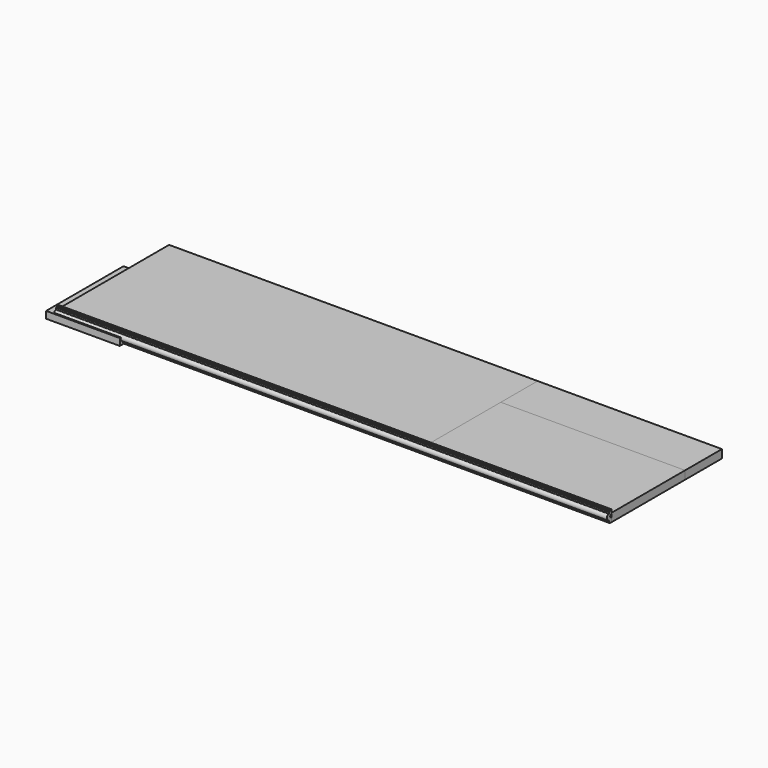
from build123d import *

# Parameters (mm, degrees)
F0_W      = 1200
F0_H      = 300
F1_DEPTH  = 18
F2_W      = 1200
F2_H      = 200
F3_DEPTH  = 18
F5_DEPTH  = 1200
F6_W      = 800
F6_H      = 300
F7_DEPTH  = 18
F8_W      = 160
F8_H      = 210
F9_DEPTH  = 15
F10_W     = 130
F10_H     = 180
F11_DEPTH = 10


with BuildPart() as f1:
    # F0 (on Top) → F1 (new body)
    with BuildSketch(Plane.XY):
        with Locations((600, 150)):
            Rectangle(F0_W, F0_H)
    extrude(amount=F1_DEPTH)


with BuildPart() as f3:
    # F2 (on Top) → F3 (new body)
    with BuildSketch(Plane.XY):
        with Locations((600, 100)):
            Rectangle(F2_W, F2_H)
    extrude(amount=F3_DEPTH)


with BuildPart() as f5:
    # F4 (on Right) → F5 (new body)
    with BuildSketch(Plane.YZ):
        with BuildLine():
            Line((-4.2474110148, 0.148322861), (0, 0))
            Line((0, 0), (0, 9.3769036656))
            ThreePointArc((0, 9.3769036656), (-3.1230963344, 12.5), (0, 15.6230963344))
            Line((0, 15.6230963344), (0, 25))
            Line((0, 25), (-4.2474110148, 24.851677139))
            ThreePointArc((-4.2474110148, 24.851677139), (-4.8075130682, 23.3925614047), (-6.2461926689, 22.7818781456))
            Line((-6.2461926689, 22.7818781456), (-6.2461926689, 19.6768592152))
            ThreePointArc((-6.2461926689, 19.6768592152), (-6.49187062, 19.0203546481), (-7.108189162, 18.6864274749))
            ThreePointArc((-7.108189162, 18.6864274749), (-12.4923853377, 12.5), (-7.108189162, 6.3135725251))
            ThreePointArc((-7.108189162, 6.3135725251), (-6.49187062, 5.9796453519), (-6.2461926689, 5.3231407848))
            Line((-6.2461926689, 5.3231407848), (-6.2461926689, 2.2181218544))
            ThreePointArc((-6.2461926689, 2.2181218544), (-4.8075130682, 1.6074385953), (-4.2474110148, 0.148322861))
        make_face()
    extrude(amount=F5_DEPTH)


with BuildPart() as f7:
    # F6 (on Top) → F7 (new body)
    with BuildSketch(Plane.XY):
        with Locations((400, 150)):
            Rectangle(F6_W, F6_H)
    extrude(amount=F7_DEPTH)


with BuildPart() as f9:
    # F8 (on Top) → F9 (new body)
    with BuildSketch(Plane.XY):
        with Locations((65, 90)):
            Rectangle(F8_W, F8_H)
    extrude(amount=F9_DEPTH)

    # F10 (on face) → F11 (cut)
    with BuildSketch(Plane.XY.offset(15)):
        with Locations((65, 90)):
            Rectangle(F10_W, F10_H)
    extrude(amount=-F11_DEPTH, mode=Mode.SUBTRACT)


solid = Compound([f1.part, f3.part, f5.part, f7.part, f9.part])
